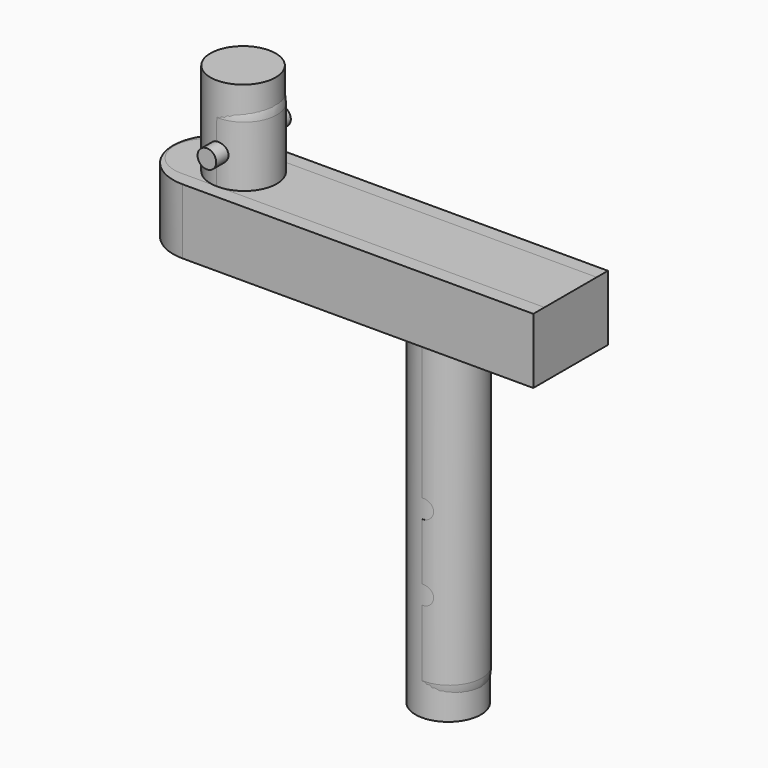
from build123d import *

# Parameters (mm, degrees)
SKETCH003_W  = 42.5
SKETCH003_H  = 32.684151
PAD003_DEPTH = 10
PAD_DEPTH    = 7
SKETCH001_R  = 3.5
PAD001_DEPTH = 10
SKETCH002_R  = 3.5
PAD002_DEPTH = 43
SKETCH005_W  = 10
SKETCH005_H  = 20
PAD005_DEPTH = 10
PAD004_DEPTH = 7
SKETCH008_R  = 1
PAD008_DEPTH = 5
PAD009_DEPTH = 5
SKETCH006_R  = 3.5
PAD006_DEPTH = 17
FILLET_R     = 3.5
SKETCH010_R  = 1
PAD011_DEPTH = 5
SKETCH009_R  = 1
PAD010_DEPTH = 5
SKETCH007_R  = 3.5
PAD007_DEPTH = 36
FILLET001_R  = 3.5


with BuildPart() as pad003:
    # Sketch003 → Pad003 (new body, symmetric)
    with BuildSketch(Plane(origin=(0, 0, 30), x_dir=(1, 0, 0), z_dir=(0, -1, 0))):
        with Locations((-16.12756, -24.341476)):
            Rectangle(SKETCH003_W, SKETCH003_H)
    extrude(amount=PAD003_DEPTH, both=True)


with BuildPart() as without_holes:
    # Sketch → Pad (new body)
    with BuildSketch(Plane.XY):
        with BuildLine():
            ThreePointArc((0, -5), (5, 0), (0, 5))
            Line((0, 5), (-74.999, 5))
            ThreePointArc((-74.999, 5), (-79.999, 0), (-74.999, -5))
            Line((0, -5), (-74.999, -5))
        make_face()
    extrude(amount=PAD_DEPTH)

    # Sketch001 → Pad001 (new body)
    with BuildSketch(Plane.XY.offset(7)):
        with Locations((-72.5, 0)):
            Circle(SKETCH001_R)
    extrude(amount=PAD001_DEPTH)

    # Sketch002 → Pad002 (new body)
    with BuildSketch(Plane.XY.offset(7)):
        with Locations((-50.5, 0)):
            Circle(SKETCH002_R)
    extrude(amount=-PAD002_DEPTH)

    # Cut: cut Pad003
    add(pad003.part, mode=Mode.SUBTRACT)


with BuildPart() as without_holes_1:
    # Cut placement: moved
    add(without_holes.part.moved(Location((37.3776, 0, 0))))


with BuildPart() as pad005:
    # Sketch005 → Pad005 (new body)
    with BuildSketch(Plane.XY):
        with Locations((5, 0)):
            Rectangle(SKETCH005_W, SKETCH005_H)
    extrude(amount=PAD005_DEPTH)


with BuildPart() as base_plate:
    # Sketch004 → Pad004 (new body)
    with BuildSketch(Plane.XY):
        with BuildLine():
            ThreePointArc((0, -3.5), (3.5, 0), (0, 3.5))
            Line((0, 3.5), (-39, 3.5))
            ThreePointArc((-39, 3.5), (-42.5, 0), (-39, -3.5))
            Line((0, -3.5), (-39, -3.5))
        make_face()
    extrude(amount=PAD004_DEPTH)

    # Cut001: cut Pad005
    add(pad005.part, mode=Mode.SUBTRACT)


with BuildPart() as hole_up002:
    # Sketch008 → Pad008 (new body, symmetric)
    with BuildSketch(Plane(origin=(-35, 0, 10.25), x_dir=(1, 0, 0), z_dir=(0, -1, 0))):
        Circle(SKETCH008_R)
    extrude(amount=PAD008_DEPTH, both=True)


with BuildPart() as hole_up001:
    # Sketch008 → Pad009 (new body, symmetric)
    with BuildSketch(Plane(origin=(-35, 0, 10.25), x_dir=(1, 0, 0), z_dir=(0, -1, 0))):
        Circle(SKETCH008_R)
    extrude(amount=PAD009_DEPTH, both=True)


with BuildPart() as pin_up_cut:
    # Sketch006 → Pad006 (new body)
    with BuildSketch(Plane.XY):
        with Locations((-35, 0)):
            Circle(SKETCH006_R)
    extrude(amount=PAD006_DEPTH)

    # Fillet
    fillet_edges = [pin_up_cut.edges().sort_by_distance(p)[0] for p in [
        (-38.5, 0, 17),
    ]]
    fillet(fillet_edges, radius=FILLET_R)

    # Cut002: cut hole_up001
    add(hole_up001.part, mode=Mode.SUBTRACT)


with BuildPart() as hole_mid:
    # Sketch010 → Pad011 (new body, symmetric)
    with BuildSketch(Plane(origin=(-13, 0, -16.25), x_dir=(1, 0, 0), z_dir=(0, -1, 0))):
        Circle(SKETCH010_R)
    extrude(amount=PAD011_DEPTH, both=True)


with BuildPart() as hole_bottom001:
    # Sketch009 → Pad010 (new body, symmetric)
    with BuildSketch(Plane(origin=(-13, 0, -24.375), x_dir=(1, 0, 0), z_dir=(0, -1, 0))):
        Circle(SKETCH009_R)
    extrude(amount=PAD010_DEPTH, both=True)


with BuildPart() as cut004:
    # Sketch007 → Pad007 (new body)
    with BuildSketch(Plane.XY):
        with Locations((-13, 0)):
            Circle(SKETCH007_R)
    extrude(amount=-PAD007_DEPTH)

    # Fillet001
    fillet001_edges = [cut004.edges().sort_by_distance(p)[0] for p in [
        (-16.5, 0, -36),
    ]]
    fillet(fillet001_edges, radius=FILLET001_R)

    # Cut003: cut hole_bottom001
    add(hole_bottom001.part, mode=Mode.SUBTRACT)

    # Cut004: cut hole_mid
    add(hole_mid.part, mode=Mode.SUBTRACT)


solid = Compound([without_holes_1.part, base_plate.part, hole_up002.part, pin_up_cut.part, cut004.part])
